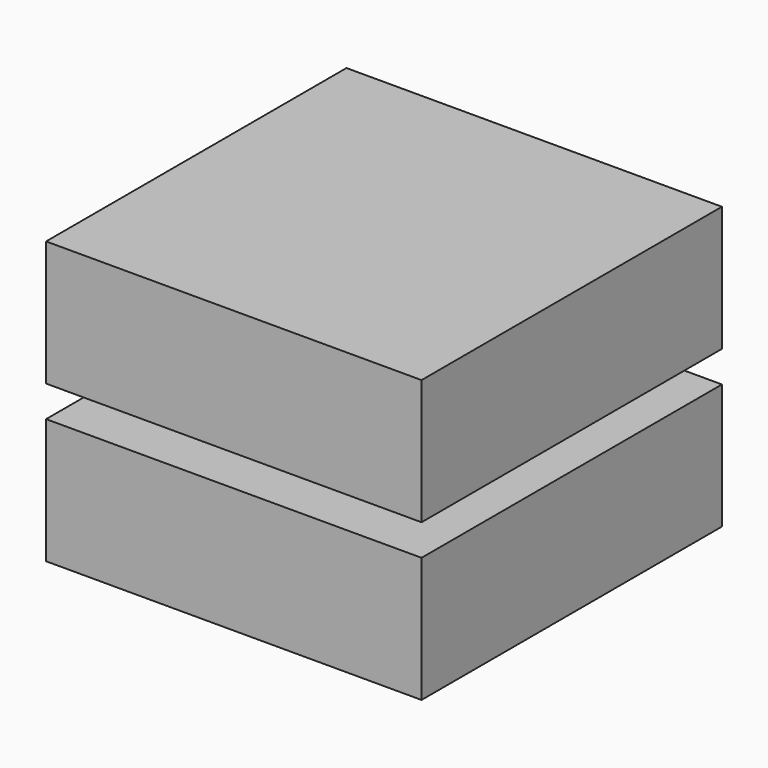
from build123d import *

# Parameters (mm, degrees)
BOX001_W     = 300
BOX001_H     = 300
BOX001_DEPTH = 100
BOX_W        = 300
BOX_H        = 300
BOX_DEPTH    = 100


with BuildPart() as cube001:
    # Box001 → Box001 (new body)
    with BuildSketch(Plane(origin=(-150, -150, 23), x_dir=(1, 0, 0), z_dir=(0, 0, 1))):
        with Locations((150, 150)):
            Rectangle(BOX001_W, BOX001_H)
    extrude(amount=BOX001_DEPTH)


with BuildPart() as fusion001:
    # Box → Box (new body)
    with BuildSketch(Plane(origin=(-150, -150, -102), x_dir=(1, 0, 0), z_dir=(0, 0, 1))):
        with Locations((150, 150)):
            Rectangle(BOX_W, BOX_H)
    extrude(amount=BOX_DEPTH)

    # Fusion001: union Cube001
    add(cube001.part)


solid = fusion001.part
